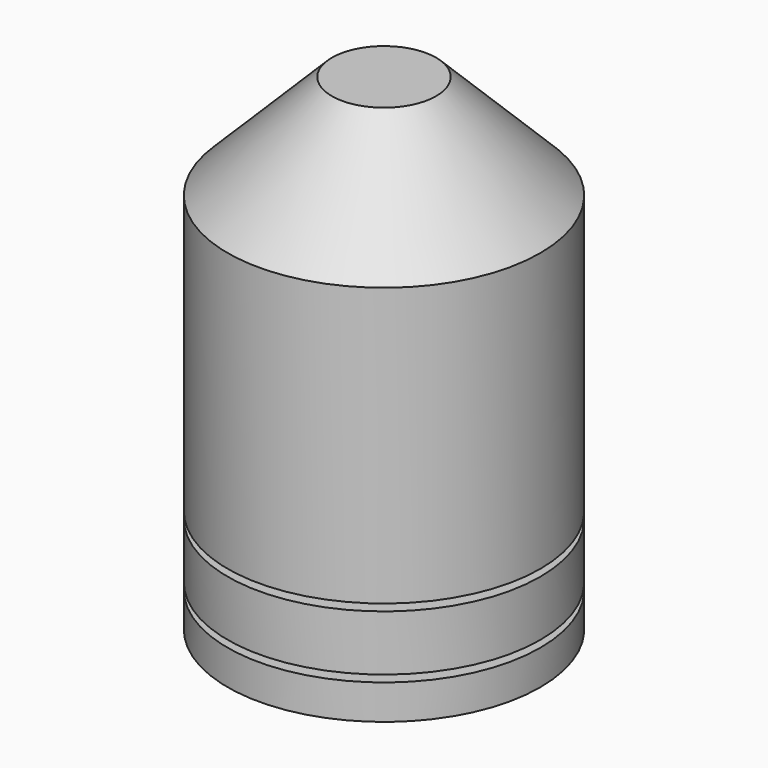
from build123d import *

# Parameters (mm, degrees)
F0_R     = 1.143
F1_DEPTH = 3.556
F4_R     = 1.1557
F4_R_2   = 1.016
F5_DEPTH = 0.0508
F6_R     = 1.1557
F6_R_2   = 1.016
F7_DEPTH = 0.0508
F8_SIZE  = 0.762


with BuildPart() as f1:
    # F0 (on Top) → F1 (new body)
    with BuildSketch(Plane.XY):
        Circle(F0_R)
    extrude(amount=F1_DEPTH)

    # F4 (on offset) → F5 (cut)
    with BuildSketch(Plane.XY.offset(0.254)):
        Circle(F4_R)
        Circle(F4_R_2, mode=Mode.SUBTRACT)
    extrude(amount=F5_DEPTH, mode=Mode.SUBTRACT)

    # F6 (on offset) → F7 (cut)
    with BuildSketch(Plane.XY.offset(0.762)):
        Circle(F6_R)
        Circle(F6_R_2, mode=Mode.SUBTRACT)
    extrude(amount=-F7_DEPTH, mode=Mode.SUBTRACT)

    # F8
    f8_edges = [f1.edges().sort_by_distance(p)[0] for p in [
        (-1.143, 0, 3.556),
    ]]
    chamfer(f8_edges, length=F8_SIZE)


solid = f1.part
